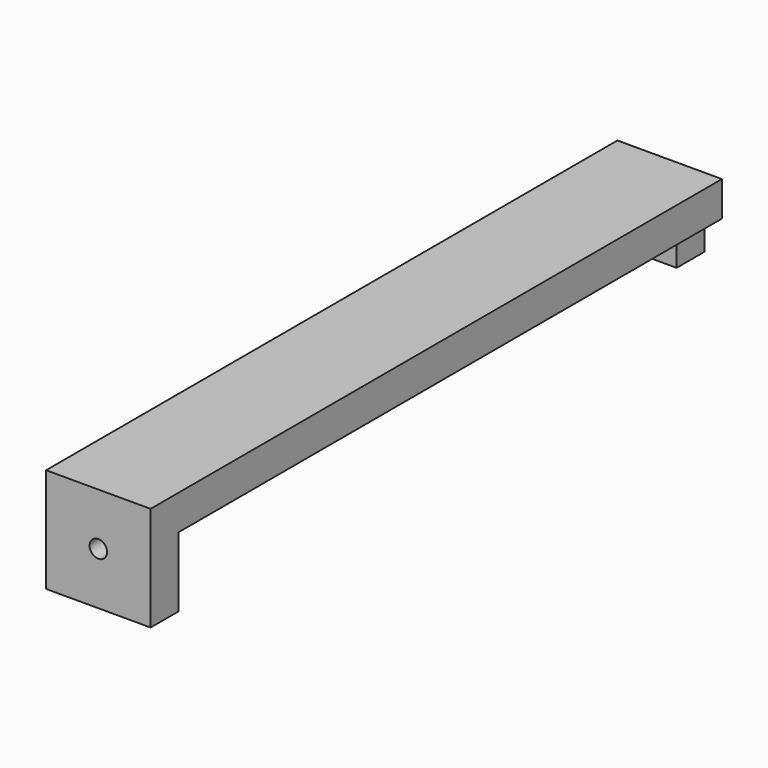
from build123d import *

# Parameters (mm, degrees)
F0_W     = 4.7625
F0_H     = 32.54375
F1_DEPTH = 4.7625
F3_DEPTH = 3.175
F4_DEPTH = 1.5875
F5_R     = 0.396875
F6_DEPTH = 32.54475


with BuildPart() as f1:
    # F0 (on Top) → F1 (new body)
    with BuildSketch(Plane.XY):
        Rectangle(F0_W, F0_H)
    extrude(amount=F1_DEPTH)

    # F2 (on face) → F3 (cut)
    with BuildSketch(Plane(origin=(0, 0, 0), x_dir=(1, 0, 0), z_dir=(0, 0, -1))):
        Polygon((2.38125, -16.271875), (2.38125, 14.684375), (-2.38125, 14.684375), (-2.38125, -16.271875), (-1.5875, -16.271875), (-1.5875, -14.684375), (1.5875, -14.684375), (1.5875, -16.271875), align=None)
    extrude(amount=-F3_DEPTH, mode=Mode.SUBTRACT)

    # F4 (cut): a face of the model
    f4_faces = [f1.faces().sort_by_distance(p)[0] for p in [
        (0, 15.478125, 0),
    ]]
    extrude(f4_faces, amount=-F4_DEPTH, mode=Mode.SUBTRACT)

    # F5 (on face) → F6 (cut, through all)
    with BuildSketch(Plane(origin=(0, 16.271875, 0), x_dir=(-1, 0, 0), z_dir=(0, 1, 0))):
        with Locations((0, 2.38125)):
            Circle(F5_R)
    extrude(amount=-F6_DEPTH, mode=Mode.SUBTRACT)


solid = f1.part
